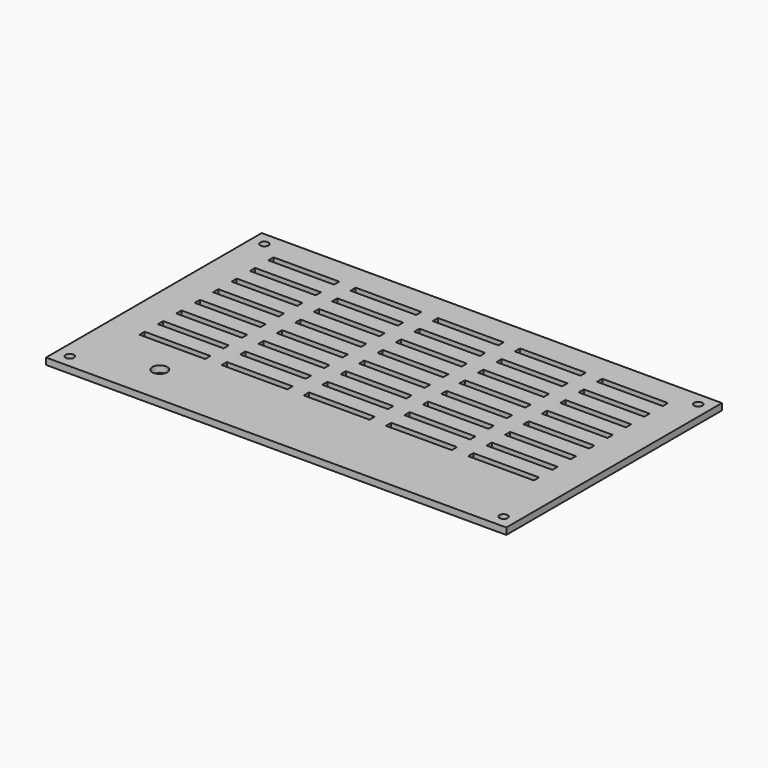
from build123d import *

# Parameters (mm, degrees)
SKETCH_W      = 140
SKETCH_H      = 82
PAD_DEPTH     = 2
SKETCH001_R   = 1.25
SKETCH001_R_2 = 2.25
SKETCH001_W   = 20
SKETCH001_H   = 2
POCKET_DEPTH  = 2


with BuildPart() as part:
    # Sketch → Pad (new body)
    with BuildSketch(Plane.XY):
        with Locations((70, 41)):
            Rectangle(SKETCH_W, SKETCH_H)
    extrude(amount=PAD_DEPTH)

    # Sketch001 (on Face6 of Pad) → Pocket (cut)
    with BuildSketch(Plane.XY.offset(2)):
        with Locations((4, 78)):
            Circle(SKETCH001_R)
        with Locations((136, 78)):
            Circle(SKETCH001_R)
        with Locations((136, 4)):
            Circle(SKETCH001_R)
        with Locations((4, 4)):
            Circle(SKETCH001_R)
        with Locations((25, 12)):
            Circle(SKETCH001_R_2)
        with Locations((20, 73)):
            Rectangle(SKETCH001_W, SKETCH001_H)
        with Locations((45, 73)):
            Rectangle(SKETCH001_W, SKETCH001_H)
        with Locations((70, 73)):
            Rectangle(SKETCH001_W, SKETCH001_H)
        with Locations((95, 73)):
            Rectangle(SKETCH001_W, SKETCH001_H)
        with Locations((120, 73)):
            Rectangle(SKETCH001_W, SKETCH001_H)
        with Locations((20, 66)):
            Rectangle(SKETCH001_W, SKETCH001_H)
        with Locations((45, 66)):
            Rectangle(SKETCH001_W, SKETCH001_H)
        with Locations((70, 66)):
            Rectangle(SKETCH001_W, SKETCH001_H)
        with Locations((95, 66)):
            Rectangle(SKETCH001_W, SKETCH001_H)
        with Locations((120, 66)):
            Rectangle(SKETCH001_W, SKETCH001_H)
        with Locations((20, 59)):
            Rectangle(SKETCH001_W, SKETCH001_H)
        with Locations((45, 59)):
            Rectangle(SKETCH001_W, SKETCH001_H)
        with Locations((70, 59)):
            Rectangle(SKETCH001_W, SKETCH001_H)
        with Locations((95, 59)):
            Rectangle(SKETCH001_W, SKETCH001_H)
        with Locations((120, 59)):
            Rectangle(SKETCH001_W, SKETCH001_H)
        with Locations((20, 52)):
            Rectangle(SKETCH001_W, SKETCH001_H)
        with Locations((45, 52)):
            Rectangle(SKETCH001_W, SKETCH001_H)
        with Locations((70, 52)):
            Rectangle(SKETCH001_W, SKETCH001_H)
        with Locations((95, 52)):
            Rectangle(SKETCH001_W, SKETCH001_H)
        with Locations((120, 52)):
            Rectangle(SKETCH001_W, SKETCH001_H)
        with Locations((20, 45)):
            Rectangle(SKETCH001_W, SKETCH001_H)
        with Locations((45, 45)):
            Rectangle(SKETCH001_W, SKETCH001_H)
        with Locations((70, 45)):
            Rectangle(SKETCH001_W, SKETCH001_H)
        with Locations((95, 45)):
            Rectangle(SKETCH001_W, SKETCH001_H)
        with Locations((120, 45)):
            Rectangle(SKETCH001_W, SKETCH001_H)
        with Locations((20, 38)):
            Rectangle(SKETCH001_W, SKETCH001_H)
        with Locations((45, 38)):
            Rectangle(SKETCH001_W, SKETCH001_H)
        with Locations((70, 38)):
            Rectangle(SKETCH001_W, SKETCH001_H)
        with Locations((95, 38)):
            Rectangle(SKETCH001_W, SKETCH001_H)
        with Locations((120, 38)):
            Rectangle(SKETCH001_W, SKETCH001_H)
        with Locations((20, 31)):
            Rectangle(SKETCH001_W, SKETCH001_H)
        with Locations((45, 31)):
            Rectangle(SKETCH001_W, SKETCH001_H)
        with Locations((70, 31)):
            Rectangle(SKETCH001_W, SKETCH001_H)
        with Locations((95, 31)):
            Rectangle(SKETCH001_W, SKETCH001_H)
        with Locations((120, 31)):
            Rectangle(SKETCH001_W, SKETCH001_H)
        with Locations((20, 24)):
            Rectangle(SKETCH001_W, SKETCH001_H)
        with Locations((45, 24)):
            Rectangle(SKETCH001_W, SKETCH001_H)
        with Locations((70, 24)):
            Rectangle(SKETCH001_W, SKETCH001_H)
        with Locations((95, 24)):
            Rectangle(SKETCH001_W, SKETCH001_H)
        with Locations((120, 24)):
            Rectangle(SKETCH001_W, SKETCH001_H)
    extrude(amount=-POCKET_DEPTH, mode=Mode.SUBTRACT)


solid = part.part
